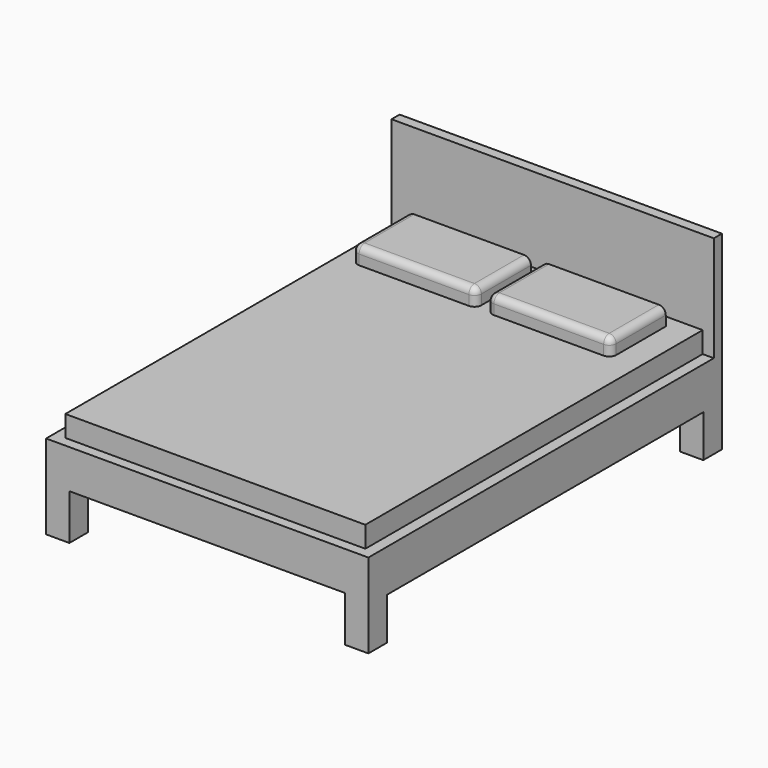
from build123d import *

# Parameters (mm, degrees)
F0_W      = 76.35137
F0_H      = 104.6798825264
F1_DEPTH  = 20
F3_DEPTH  = 105
F4_W      = 93.6356825264
F4_H      = 10
F5_DEPTH  = 100
F7_DEPTH  = 25
F6_W      = 71.0693526958
F6_H      = 99.8780601819
F8_DEPTH  = 5
F9_W      = 29.2911557481
F9_H      = 16.3262225688
F9_W_2    = 29.291
F10_DEPTH = 4
F11_R     = 1.65


with BuildPart() as f1:
    # F0 (on Top) → F1 (new body)
    with BuildSketch(Plane.XY):
        with Locations((-0.238945, 18.4870436788)):
            Rectangle(F0_W, F0_H)
    extrude(amount=F1_DEPTH)

    # F2 (on face) → F3 (cut)
    with BuildSketch(Plane.XZ.offset(33.8528975844)):
        Polygon((32.4146378825, 10.8041167259), (-32.89253, 10.8041167259), (-32.89253, 9.3744061509), (-32.89253, 0), (32.4146378825, 0), (32.4146378825, 9.3744061509), align=None)
        Polygon((32.4146378825, 10.8041167259), (-32.89253, 10.8041167259), (-32.89253, 9.3744061509), (-32.89253, 0), (32.4146378825, 0), (32.4146378825, 9.3744061509), align=None)
    extrude(amount=-F3_DEPTH, mode=Mode.SUBTRACT)

    # F4 (on face) → F5 (cut)
    with BuildSketch(Plane(origin=(-38.41463, 0, 0), x_dir=(0, -1, 0), z_dir=(-1, 0, 0))):
        with Locations((-18.4870436788, 5)):
            Rectangle(F4_W, F4_H)
    extrude(amount=-F5_DEPTH, mode=Mode.SUBTRACT)

    # F6 (on face) → F7 (join)
    with BuildSketch(Plane.XY.offset(20)):
        Polygon((-38.41463, 68.4260725975), (-35.7736226958, 68.4260725975), (35.29573, 68.4260725975), (37.93674, 68.4260725975), (37.93674, 70.826984942), (-38.41463, 70.826984942), align=None)
    extrude(amount=F7_DEPTH)

    # F6 (on face) → F8 (join)
    with BuildSketch(Plane.XY.offset(20)):
        with Locations((-0.2389463479, 18.4870425065)):
            Rectangle(F6_W, F6_H)
    extrude(amount=F8_DEPTH)

    # F9 (on face) → F10 (join)
    with BuildSketch(Plane.XY.offset(25)):
        with Locations((-17.5266725798, 57.14177154)):
            Rectangle(F9_W, F9_H)
        with Locations((14.4065536521, 57.14177154)):
            Rectangle(F9_W_2, F9_H)
    extrude(amount=F10_DEPTH)

    # F11
    f11_edges = [f1.edges().sort_by_distance(p)[0] for p in [
        (-17.526673, 48.97866, 29),
        (-32.17225, 65.304883, 27),
        (-0.238946, 48.97866, 27),
        (14.406554, 48.97866, 29),
        (-0.238946, 57.141772, 29),
        (-32.17225, 57.141772, 29),
        (-32.17225, 48.97866, 27),
        (-2.881095, 48.97866, 27),
        (-2.881095, 57.141772, 29),
        (29.052054, 57.141772, 29),
        (29.052054, 48.97866, 27),
    ]]
    fillet(f11_edges, radius=F11_R)


solid = f1.part
